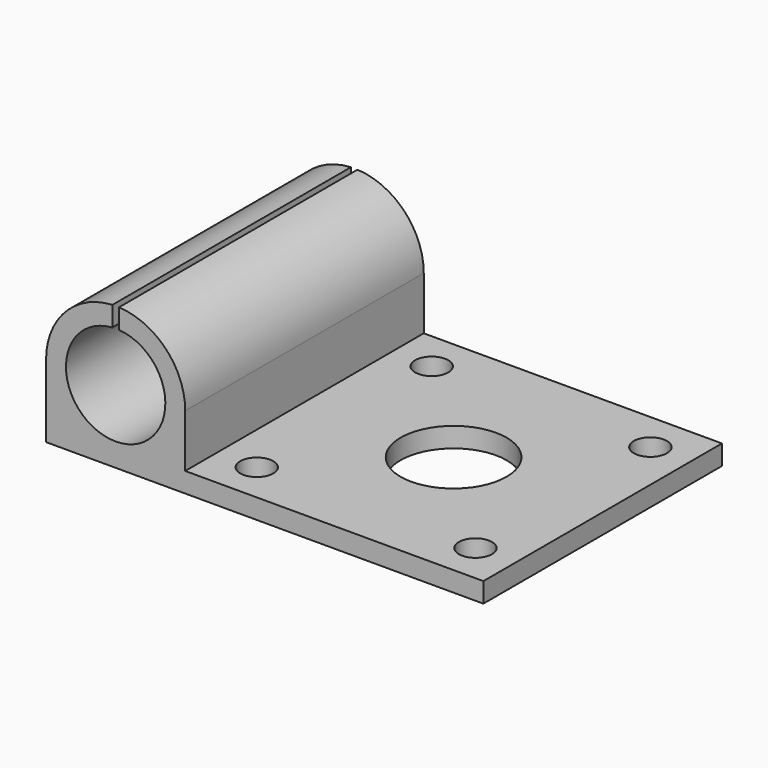
from build123d import *

# Parameters (mm, degrees)
F1_DEPTH = 45
F2_R     = 8
F2_R_2   = 2.5
F3_DEPTH = 10


with BuildPart() as f1:
    # F0 (on Front) → F1 (new body)
    with BuildSketch(Plane.XZ):
        with BuildLine():
            ThreePointArc((-10, 18.483315), (-10.5, 3.5), (-11, 18.483315))
            Line((-11, 18.483315), (-11, 21.488088))
            ThreePointArc((-11, 21.488088), (-18.099342, 18.245688), (-21, 11))
            Line((-21, 11), (-21, 0))
            Line((-21, 0), (45, 0))
            Line((45, 0), (45, 3))
            Line((45, 3), (0, 3))
            Line((0, 3), (0, 11))
            ThreePointArc((0, 11), (-2.900658, 18.245688), (-10, 21.488088))
            Line((-10, 21.488088), (-10, 18.483315))
        make_face()
    extrude(amount=-F1_DEPTH)

    # F2 (on Top) → F3 (cut)
    with BuildSketch(Plane.XY):
        with Locations((22.5, 22.5)):
            Circle(F2_R)
        with Locations((6, 39)):
            Circle(F2_R_2)
        with Locations((39, 39)):
            Circle(F2_R_2)
        with Locations((39, 6)):
            Circle(F2_R_2)
        with Locations((6, 6)):
            Circle(F2_R_2)
    extrude(amount=F3_DEPTH, mode=Mode.SUBTRACT)


solid = f1.part
